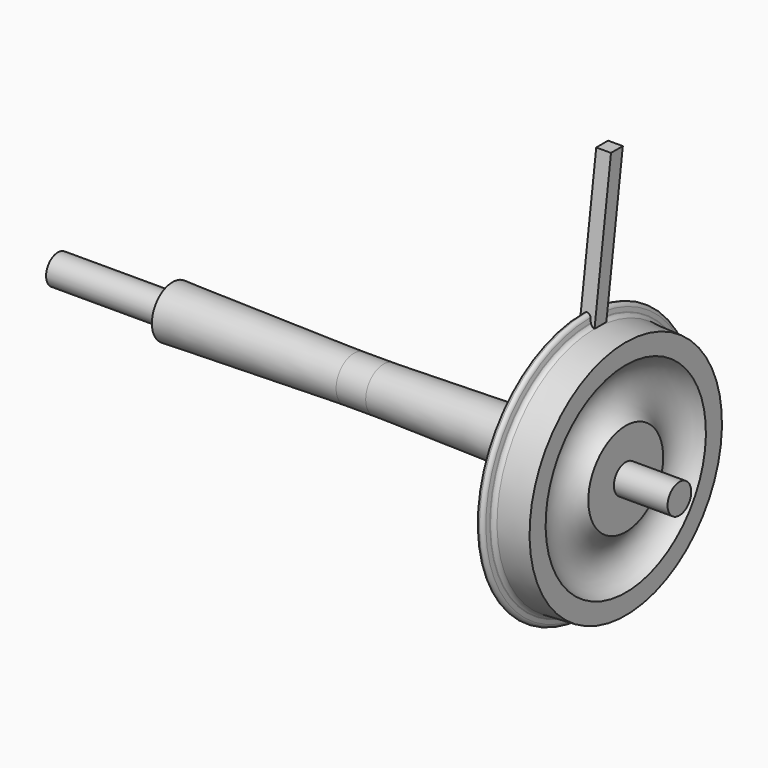
from build123d import *

# Parameters (mm, degrees)
F7_ANGLE = 352


with BuildPart() as f1:
    # F0 (on Front) → F1 (revolve)
    with BuildSketch(Plane.XZ):
        Polygon((0, 0), (0, 9.525), (-6.35, 9.525), (-84.1375, 11.1125), (-84.1375, 6.35), (-133.35, 6.35), (-133.35, 0), align=None)
        Polygon((6.35, 9.525), (0, 9.525), (0, 0), (133.35, 0), (133.35, 6.35), (84.1375, 6.35), (84.1375, 11.1125), align=None)
    revolve(axis=Axis((-66.675, 0, 0), (-1, 0, 0)))


with BuildPart() as f3:
    # F2 (on Front) → F3 (revolve)
    with BuildSketch(Plane.XZ):
        with BuildLine():
            ThreePointArc((91.484723, 34.525663), (94.485511, 20.724606), (84.1375, 11.1125))
            Line((84.1375, 11.1125), (84.1375, 0))
            Line((84.1375, 0), (91.28125, 0))
            Line((91.28125, 0), (110.33125, 0))
            Line((110.33125, 0), (110.33125, 20.081842))
            ThreePointArc((110.33125, 20.081842), (103.024782, 31.538588), (110.33125, 42.995334))
            Line((110.33125, 42.995334), (110.33125, 51.609492))
            Line((110.33125, 51.609492), (96.933199, 52.311655))
            ThreePointArc((96.933199, 52.311655), (95.922675, 52.794751), (95.24365, 53.685518))
            ThreePointArc((95.24365, 53.685518), (95.19629, 53.801271), (95.155057, 53.919346))
            Line((95.155057, 53.919346), (94.84278, 55.690357))
            ThreePointArc((94.84278, 55.690357), (94.298748, 56.686662), (93.26245, 57.15))
            ThreePointArc((93.26245, 57.15), (92.226152, 56.686662), (91.68212, 55.690357))
            Line((91.68212, 55.690357), (91.28125, 53.416909))
            Line((91.28125, 53.416909), (91.28125, 35.056334))
            ThreePointArc((91.28125, 35.056334), (91.333862, 34.772163), (91.484723, 34.525663))
        make_face()
    revolve(axis=Axis((100.80625, 0, 0), (1, 0, 0)))


with BuildPart() as f6:
    # F6: sweep along a path in F4
    with BuildLine(Plane.YZ) as f6_path:
        Line((0, 57.15), (6.288202, 58.033749))
    # F5 (on Front) → F6 (sweep)
    with BuildSketch(Plane.XZ):
        with BuildLine():
            Line((91.28125, 52.311655), (91.28125, 53.416909))
            Line((91.28125, 53.416909), (91.68212, 55.690357))
            ThreePointArc((91.68212, 55.690357), (92.226152, 56.686662), (93.26245, 57.15))
            ThreePointArc((93.26245, 57.15), (94.298748, 56.686662), (94.84278, 55.690357))
            Line((94.84278, 55.690357), (95.155057, 53.919346))
            ThreePointArc((95.155057, 53.919346), (95.827739, 52.87617), (96.933199, 52.311655))
            Line((96.933199, 52.311655), (96.933199, 115.811655))
            Line((96.933199, 115.811655), (90.59545, 115.811655))
            Line((90.59545, 115.811655), (90.59545, 52.311655))
            Line((90.59545, 52.311655), (91.28125, 52.311655))
        make_face()
    sweep(path=f6_path.line)


with BuildPart() as f6_1:
    # F7: moved
    add(f6.part.rotate(Axis((93.26245, 0, 52.4002), (1, 0, 0)), F7_ANGLE))


solid = Compound([f1.part, f3.part, f6_1.part])
